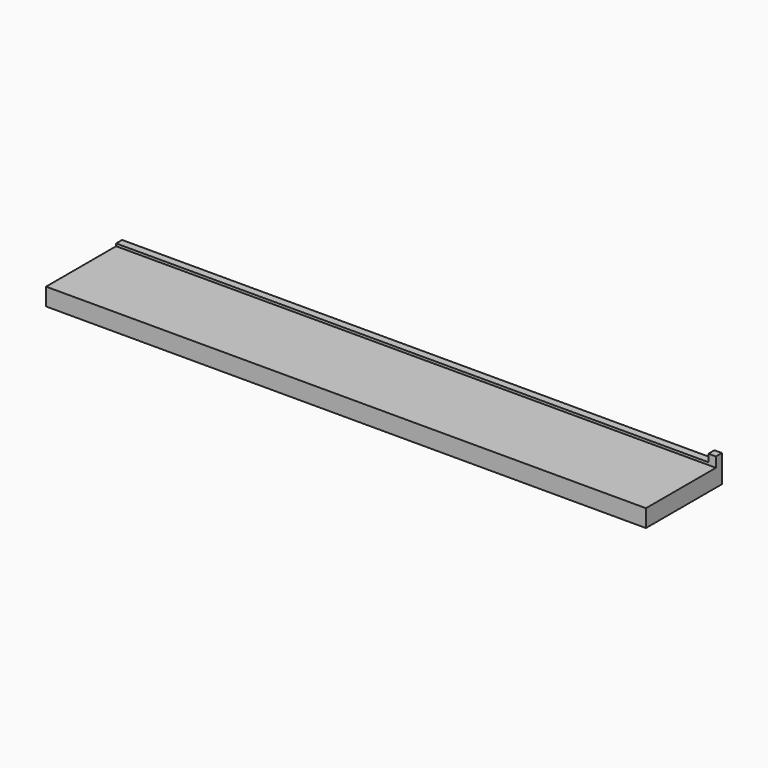
from build123d import *

# Parameters (mm, degrees)
F1_W     = 240
F1_H     = 38
F2_DEPTH = 8
F3_W     = 240
F3_H     = 35
F4_DEPTH = 1
F5_W     = 3
F5_H     = 3
F6_DEPTH = 3


with BuildPart() as f2:
    # F1 (on Top) → F2 (new body)
    with BuildSketch(Plane.XY):
        Rectangle(F1_W, F1_H)
    extrude(amount=F2_DEPTH)

    # F3 (on face) → F4 (cut)
    with BuildSketch(Plane.XY.offset(8)):
        with Locations((0, -1.5)):
            Rectangle(F3_W, F3_H)
    extrude(amount=-F4_DEPTH, mode=Mode.SUBTRACT)

    # F5 (on face) → F6 (join)
    with BuildSketch(Plane.XY.offset(8)):
        with Locations((118.5, 17.5)):
            Rectangle(F5_W, F5_H)
    extrude(amount=F6_DEPTH)


solid = f2.part
